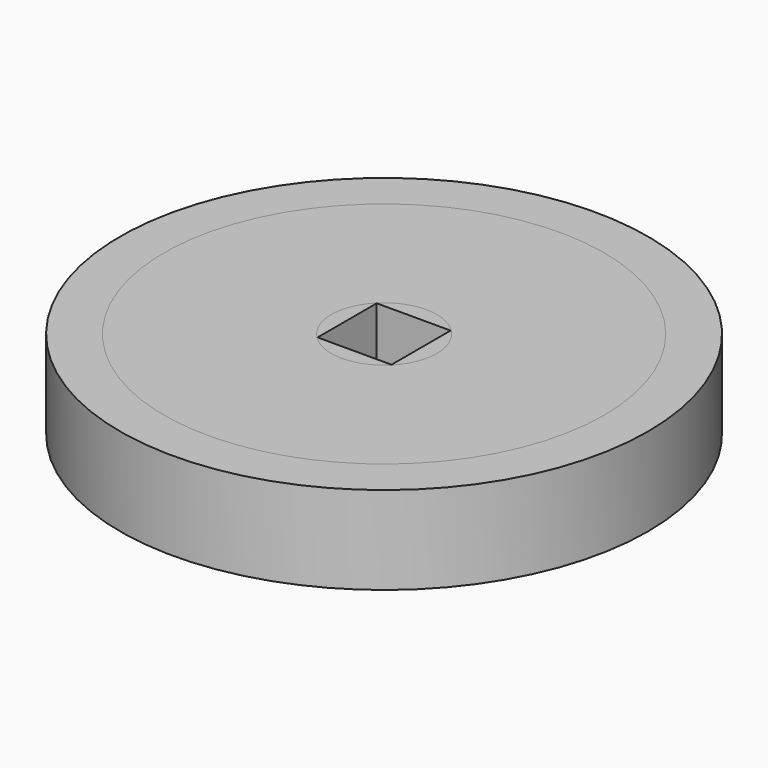
from build123d import *

# Parameters (mm, degrees)
F0_R     = 15
F0_W     = 4.2
F0_H     = 4.2
F1_DEPTH = 5
F2_R     = 12.5
F2_R_2   = 3
F3_DEPTH = 5


with BuildPart() as f1:
    # F0 (on Top) → F1 (new body)
    with BuildSketch(Plane.XY):
        Circle(F0_R)
        Rectangle(F0_W, F0_H, mode=Mode.SUBTRACT)
    extrude(amount=F1_DEPTH)


with BuildPart() as f3:
    # F2 (on Top) → F3 (new body)
    with BuildSketch(Plane.XY):
        Circle(F2_R)
        Circle(F2_R_2, mode=Mode.SUBTRACT)
    extrude(amount=F3_DEPTH)


solid = Compound([f1.part, f3.part])
